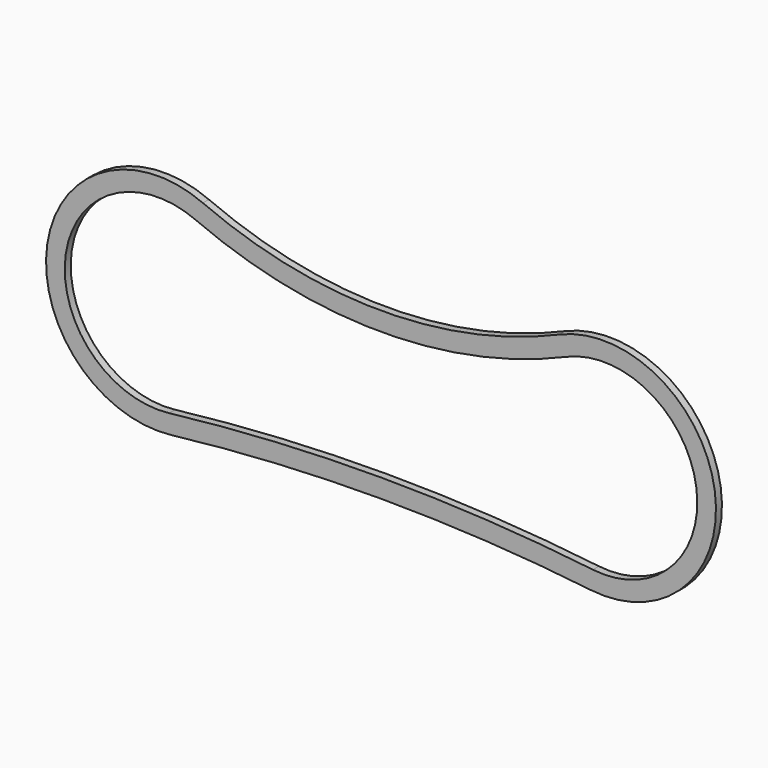
from build123d import *

# Parameters (mm, degrees)
F1_DEPTH = 20


with BuildPart() as f1:
    # F0 (on Front) → F1 (new body)
    with BuildSketch(Plane.XZ):
        with BuildLine():
            ThreePointArc((-3346.58175, 2707.713837), (-3822.58175, 2609.269101), (-4298.58175, 2707.713837))
            ThreePointArc((-4298.58175, 2707.713837), (-4714.388057, 2475.982965), (-4382.921556, 2134.333962))
            ThreePointArc((-4382.921556, 2134.333962), (-3822.58175, 2166.81185), (-3262.241944, 2134.333962))
            ThreePointArc((-3262.241944, 2134.333962), (-2930.775443, 2475.982965), (-3346.58175, 2707.713837))
        make_face()
        with BuildLine():
            ThreePointArc((-4388.698255, 2183.999139), (-4664.920339, 2468.706641), (-4318.415083, 2661.815701))
            ThreePointArc((-4318.415083, 2661.815701), (-3822.58175, 2559.269101), (-3326.748417, 2661.815701))
            ThreePointArc((-3326.748417, 2661.815701), (-2980.243161, 2468.706641), (-3256.465245, 2183.999139))
            ThreePointArc((-3256.465245, 2183.999139), (-3822.58175, 2216.81185), (-4388.698255, 2183.999139))
        make_face(mode=Mode.SUBTRACT)
    extrude(amount=F1_DEPTH)


solid = f1.part
